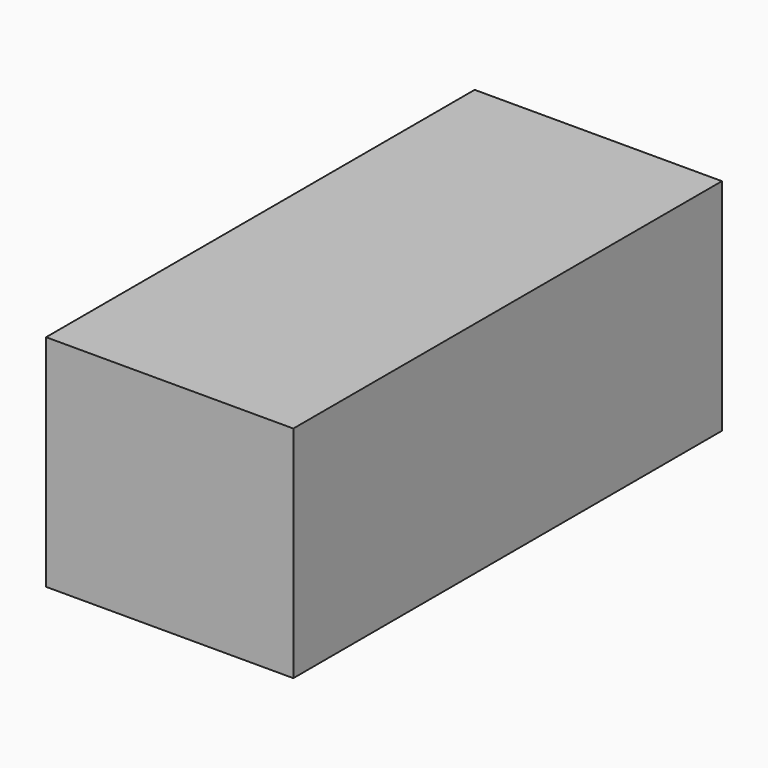
from build123d import *

# Parameters (mm, degrees)
F0_W     = 97.5
F0_H     = 45
F1_DEPTH = 40
F2_ANGLE = 90


with BuildPart() as f1:
    # F0 (on Top) → F1 (new body)
    with BuildSketch(Plane.XY):
        with Locations((0.8985996246, -14.4615235215)):
            Rectangle(F0_W, F0_H)
    extrude(amount=F1_DEPTH)


with BuildPart() as f1_1:
    # F2: moved
    add(f1.part.rotate(Axis((-47.8514003754, -36.9615235215, 20), (0, 0, -1)), F2_ANGLE))


solid = f1_1.part
